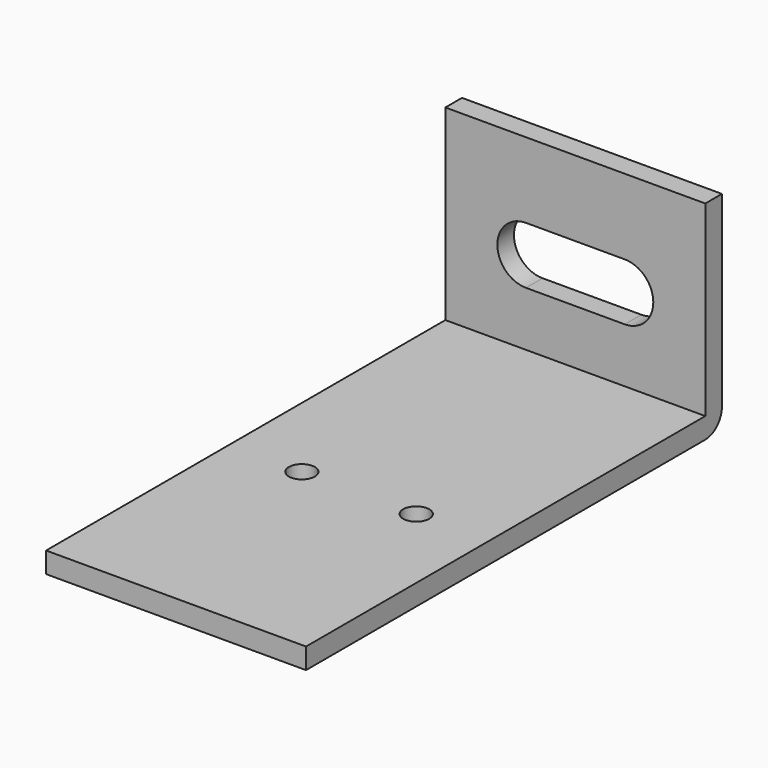
from build123d import *

# Parameters (mm, degrees)
F1_DEPTH = 12.5
F3_DEPTH = 25
F4_R     = 1.25
F5_DEPTH = 25


with BuildPart() as f1:
    # F0 (on Right) → F1 (new body, symmetric)
    with BuildSketch(Plane.YZ):
        with BuildLine():
            Line((-2.746685, 2), (-2.746685, 0))
            Line((-2.746685, 0), (45.253315, 0))
            ThreePointArc((45.253315, 0), (46.667529, 0.585786), (47.253315, 2))
            Line((47.253315, 2), (47.253315, 20))
            Line((47.253315, 20), (45.253315, 20))
            Line((45.253315, 20), (45.253315, 2))
            Line((45.253315, 2), (-2.746685, 2))
        make_face()
    extrude(amount=F1_DEPTH, both=True)

    # F2 (on face) → F3 (cut)
    with BuildSketch(Plane.XZ.offset(-45.253315)):
        with BuildLine():
            Line((4.75, 12.75), (-4.75, 12.75))
            ThreePointArc((-4.75, 12.75), (-7.5, 10), (-4.75, 7.25))
            Line((-4.75, 7.25), (4.75, 7.25))
            ThreePointArc((4.75, 7.25), (7.5, 10), (4.75, 12.75))
        make_face()
    extrude(amount=-F3_DEPTH, mode=Mode.SUBTRACT)

    # F4 (on face) → F5 (cut)
    with BuildSketch(Plane(origin=(0, 0, 0), x_dir=(1, 0, 0), z_dir=(0, 0, -1))):
        with Locations((5.5, -19.253315)):
            Circle(F4_R)
        with Locations((-5.5, -19.253315)):
            Circle(F4_R)
    extrude(amount=-F5_DEPTH, mode=Mode.SUBTRACT)


solid = f1.part
